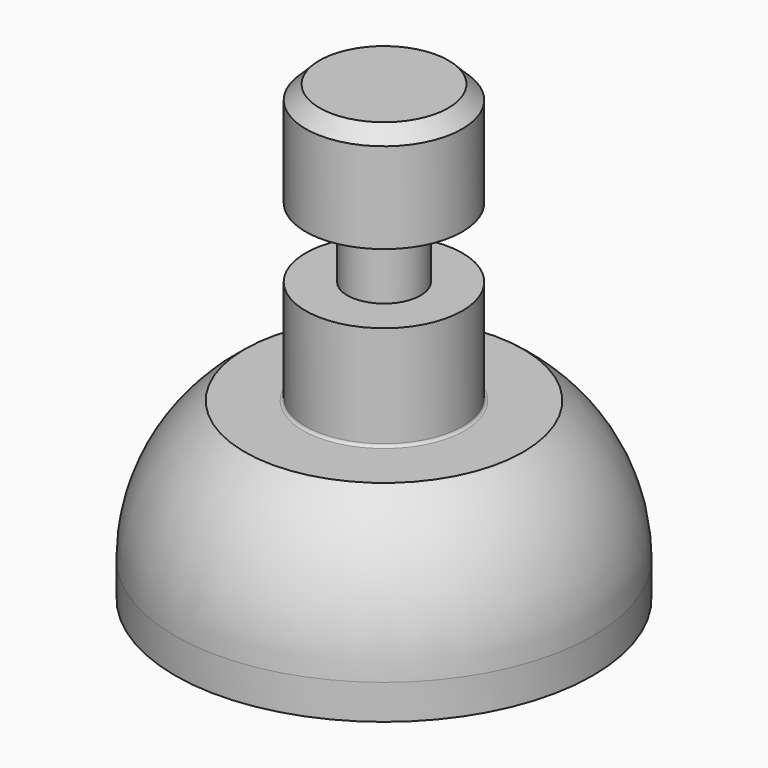
from build123d import *

# Parameters (mm, degrees)
F2_R     = 0.254
F3_SIZE2 = 1.27
F3_SIZE  = 1.27


with BuildPart() as f1:
    # F0 (on Front) → F1 (revolve)
    with BuildSketch(Plane.XZ):
        with BuildLine():
            Line((0, 41.275), (0, 0))
            Line((0, 0), (19.05, 0))
            Line((19.05, 0), (19.05, 3.175))
            ThreePointArc((19.05, 3.175), (17.374032, 10.274516), (12.7, 15.875))
            Line((12.7, 15.875), (7.14375, 15.875))
            Line((7.14375, 15.875), (7.14375, 25.4))
            Line((7.14375, 25.4), (3.3401, 25.4))
            Line((3.3401, 25.4), (3.3401, 31.75))
            Line((3.3401, 31.75), (7.14375, 31.75))
            Line((7.14375, 31.75), (7.14375, 41.275))
            Line((7.14375, 41.275), (0, 41.275))
        make_face()
    revolve(axis=Axis((0, 0, -1.440535), (0, 0, -1)))

    # F2
    f2_edges = [f1.edges().sort_by_distance(p)[0] for p in [
        (-7.14375, 0, 15.875),
    ]]
    fillet(f2_edges, radius=F2_R)

    # F3
    f3_edges = [f1.edges().sort_by_distance(p)[0] for p in [
        (-7.14375, 0, 41.275),
    ]]
    chamfer(f3_edges, length=F3_SIZE, length2=F3_SIZE2)


solid = f1.part
